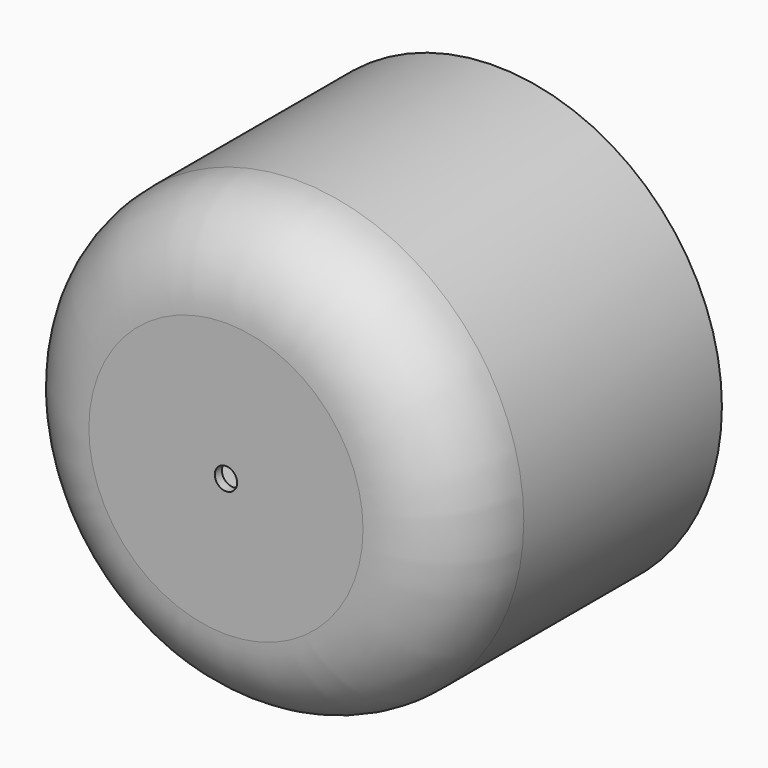
from build123d import *

# Parameters (mm, degrees)
F0_R     = 64.391554
F1_DEPTH = 95.8381
F2_R     = 25.4
F3_T     = -2.54
F5_D     = 6.35


with BuildPart() as f1:
    # F0 (on Front) → F1 (new body)
    with BuildSketch(Plane.XZ):
        Circle(F0_R)
    extrude(amount=F1_DEPTH)

    # F2
    f2_edges = [f1.edges().sort_by_distance(p)[0] for p in [
        (-64.391554, -95.8381, 0),
    ]]
    fillet(f2_edges, radius=F2_R)

    # F3
    f3_openings = [f1.faces().sort_by_distance(p)[0] for p in [
        (0, 0, 0),
    ]]
    offset(amount=F3_T, openings=f3_openings)

    # F5 (through all)
    with Locations(Plane.XZ.offset(95.8381)):
        with Locations((0, 0)):
            Hole(F5_D / 2)


solid = f1.part
